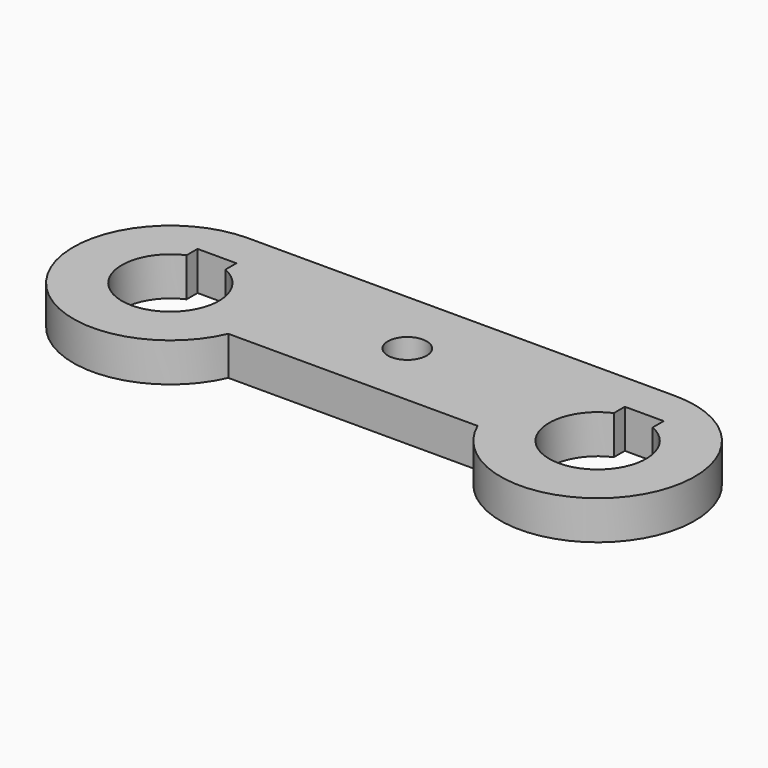
from build123d import *

# Parameters (mm, degrees)
SKETCH_R     = 1
SKETCH_R_2   = 2.5
PAD_DEPTH    = 2
SKETCH001_W  = 2
SKETCH001_H  = 2
POCKET_DEPTH = 2.001


with BuildPart() as part:
    # Sketch → Pad (new body)
    with BuildSketch(Plane.XY):
        with BuildLine():
            Line((-11, 3.5), (11, 3.5))
            ThreePointArc((6.417424, -3.5), (15.1833, -4.238613), (11, 3.5))
            Line((-6.417424, -3.5), (6.417424, -3.5))
            ThreePointArc((-11, 3.5), (-15.1833, -4.238613), (-6.417424, -3.5))
        make_face()
        Circle(SKETCH_R, mode=Mode.SUBTRACT)
        with Locations((-11, -1.5)):
            Circle(SKETCH_R_2, mode=Mode.SUBTRACT)
        with Locations((11, -1.5)):
            Circle(SKETCH_R_2, mode=Mode.SUBTRACT)
    extrude(amount=PAD_DEPTH)

    # Sketch001 → Pocket (cut, through all)
    with BuildSketch(Plane.XY.offset(2)):
        with Locations((-11, 0.5)):
            Rectangle(SKETCH001_W, SKETCH001_H)
        with Locations((11, 0.5)):
            Rectangle(SKETCH001_W, SKETCH001_H)
    extrude(amount=-POCKET_DEPTH, mode=Mode.SUBTRACT)


solid = part.part
